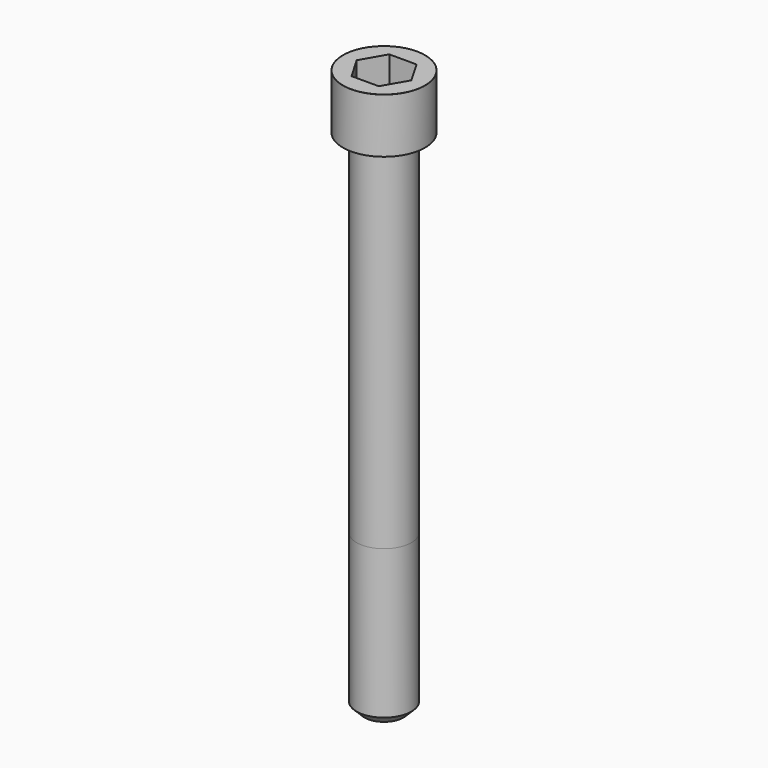
from build123d import *

# Parameters (mm, degrees)
POCKET_DEPTH = 12.07


with BuildPart() as part:
    # Sketch → Revolve (revolve)
    with BuildSketch(Plane.YZ):
        with BuildLine():
            Line((6.999, 0), (10.5, 0))
            Line((10.5, 0), (10.5, 13.97229))
            ThreePointArc((10.5, 13.97229), (10.491884, 13.991884), (10.47229, 14))
            Line((10.47229, 14), (0, 14))
            Line((0, -130), (0, 14))
            Line((5, -130), (0, -130))
            Line((7, -128), (5, -130))
            Line((7, -90), (7, -128))
            Line((6.999, 0), (7, -90))
        make_face()
    revolve(axis=Axis((0, 0, 0), (0, 0, 1)))

    # Sketch001 → Pocket (cut)
    with BuildSketch(Plane.XY.offset(14)):
        Polygon((6.968618, 0), (3.484309, 6.035), (-3.484309, 6.035), (-6.968618, 0), (-3.484309, -6.035), (3.484309, -6.035), align=None)
    extrude(amount=-POCKET_DEPTH, mode=Mode.SUBTRACT)


solid = part.part
